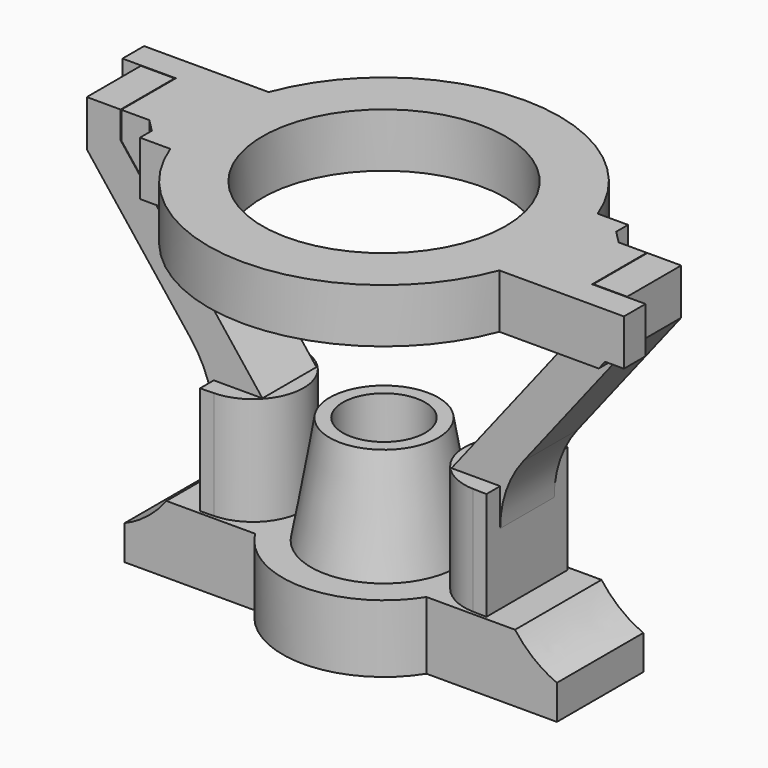
from build123d import *

# Parameters (mm, degrees)
SKETCH_R           = 5.4
SKETCH001_R        = 4.025
SKETCH003_R        = 7.5
PAD_DEPTH          = 5
SKETCH002_R        = 3.05
POCKET_DEPTH       = 200
SKETCH004_W        = 6.5
SKETCH004_H        = 8
PAD001_DEPTH       = 5
PAD002_DEPTH       = 8
SKETCH006_W        = 2.5
SKETCH006_H        = 5
PAD003_DEPTH       = 8
PAD004_DEPTH       = 5
PAD005_DEPTH       = 8
FILLET_R           = 8
FILLET001_R        = 8
SKETCH009_R        = 9
PAD006_DEPTH       = 4
POCKET001_DEPTH    = 5.05
POCKET002_DEPTH    = 5.05
POCKET003_DEPTH    = 5
POCKET004_DEPTH    = 5
POCKET005_DEPTH    = 5
POLARPATTERN_COUNT = 2


with BuildPart() as obj1:
    # Sketch → AdditiveLoft section 0
    with BuildSketch(Plane.XY):
        Circle(SKETCH_R)
    # Sketch001 (on DatumPlane) → AdditiveLoft section 1
    with BuildSketch(Plane.XY.offset(8)):
        Circle(SKETCH001_R)
    loft()

    # Sketch003 (on Face1 of AdditiveLoft) → Pad (new body)
    with BuildSketch(Plane(origin=(0, 0, 0), x_dir=(1, 0, 0), z_dir=(0, 0, -1))):
        Circle(SKETCH003_R)
    extrude(amount=PAD_DEPTH)

    # Sketch002 (on DatumPlane) → Pocket (cut)
    with BuildSketch(Plane.XY.offset(8)):
        Circle(SKETCH002_R)
    extrude(amount=-POCKET_DEPTH, mode=Mode.SUBTRACT)

    # Sketch004 (on Face2 of Pocket) → Pad001 (join)
    with BuildSketch(Plane.XY):
        with Locations((9.25, 0)):
            Rectangle(SKETCH004_W, SKETCH004_H)
    pad001 = extrude(amount=-PAD001_DEPTH)

    # Sketch005 (on Face3 of Pad001) → Pad002 (join)
    with BuildSketch(Plane.XZ.offset(4)):
        with BuildLine():
            Line((12.5, -5), (12.5, 0))
            Line((12.5, 0), (12.9, 0))
            add(Edge.make_bspline(
                [(12.9, 0), (14.151342, -1.664118), (16, -2.45)],
                knots=[0, 0, 0, 1, 1, 1], degree=2))
            Line((16, -2.45), (16, -5))
            Line((16, -5), (12.5, -5))
        make_face()
    pad002 = extrude(amount=-PAD002_DEPTH)

    # Sketch006 (on Face2 of Pad002) → Pad003 (join)
    with BuildSketch(Plane.XY):
        with Locations((9.25, 0)):
            Rectangle(SKETCH006_W, SKETCH006_H)
    pad003 = extrude(amount=PAD003_DEPTH)

    # Sketch007 (on Face9 of Pad003) → Pad004 (join)
    with BuildSketch(Plane.XZ.offset(2.5)):
        Polygon((7, 8), (10.6, 8), (20, 20), (20, 23.404255), (17.5, 23.404255), (17.5, 21.404255), align=None)
    pad004 = extrude(amount=-PAD004_DEPTH)

    # Sketch008 → Pad005 (join)
    with BuildSketch(Plane.XY):
        with BuildLine():
            ThreePointArc((9.6, 3.748666), (5.95, 0), (9.6, -3.748666))
            Line((9.6, -3.748666), (10.6, -3.775343))
            Line((10.6, -3.775343), (10.6, 3.748666))
            Line((10.6, 3.748666), (9.6, 3.748666))
        make_face()
    pad005 = extrude(amount=PAD005_DEPTH)

    # Fillet
    fillet_edges = [obj1.edges().sort_by_distance(p)[0] for p in [
        (10.6, 0, 8),
    ]]
    fillet(fillet_edges, radius=FILLET_R)

    # Mirrored: Pad001, Pad002, Pad003, Pad004, Pad005 across Sketch004 V_Axis
    add(pad001.mirror(Plane(origin=(0, 0, 0), x_dir=(0, 0, 1), z_dir=(1, 0, 0))))
    add(pad002.mirror(Plane(origin=(0, 0, 0), x_dir=(0, 0, 1), z_dir=(1, 0, 0))))
    add(pad003.mirror(Plane(origin=(0, 0, 0), x_dir=(0, 0, 1), z_dir=(1, 0, 0))))
    add(pad004.mirror(Plane(origin=(0, 0, 0), x_dir=(0, 0, 1), z_dir=(1, 0, 0))))
    add(pad005.mirror(Plane(origin=(0, 0, 0), x_dir=(0, 0, 1), z_dir=(1, 0, 0))))

    # Fillet001
    fillet001_edges = [obj1.edges().sort_by_distance(p)[0] for p in [
        (-10.6, 0, 8),
    ]]
    fillet(fillet001_edges, radius=FILLET001_R)


with BuildPart() as stability_ring:
    # Sketch009 (on DatumPlane) → Pad006 (new body)
    with BuildSketch(Plane.XY.offset(23.404255)):
        with BuildLine():
            ThreePointArc((12.177746, 4.55), (-1.065181, 12.956288), (-12.757351, 2.5))
            Line((-17.45, 2.5), (-12.757351, 2.5))
            Line((-17.45, 2.5), (-17.45, -2.55))
            Line((-17.45, -2.55), (-22, -2.55))
            Line((-22, -2.55), (-22, -4.55))
            Line((-22, -4.55), (-12.177746, -4.55))
            ThreePointArc((-12.177746, -4.55), (1.065181, -12.956288), (12.757351, -2.5))
            Line((17.45, -2.5), (12.757351, -2.5))
            Line((17.45, 2.55), (17.45, -2.5))
            Line((22, 2.55), (17.45, 2.55))
            Line((22, 2.55), (22, 4.55))
            Line((22, 4.55), (12.177746, 4.55))
        make_face()
        Circle(SKETCH009_R, mode=Mode.SUBTRACT)
    extrude(amount=-PAD006_DEPTH)

    # Sketch010 (on Face10 of Pad006) → Pocket001 (cut)
    with BuildSketch(Plane(origin=(0, -2.5, 23.404255), x_dir=(1, 0, 0), z_dir=(0, -1, 0))):
        Polygon((17.470894, -1.952582), (15.784162, -4.077046), (17.863272, -4.077046), align=None)
    extrude(amount=-POCKET001_DEPTH, mode=Mode.SUBTRACT)

    # Sketch011 (on Face7 of Pocket001) → Pocket002 (cut)
    with BuildSketch(Plane(origin=(0, 2.5, 23.404255), x_dir=(-1, 0, 0), z_dir=(0, 1, 0))):
        Polygon((15.814852, -4.068472), (17.467579, -1.977585), (17.988518, -4.068472), align=None)
    extrude(amount=-POCKET002_DEPTH, mode=Mode.SUBTRACT)

    # Sketch012 (on Face17 of Pocket002) → Pocket003 (cut)
    with BuildSketch(Plane(origin=(0, -2.55, 23.404255), x_dir=(-1, 0, 0), z_dir=(0, 1, 0))):
        Polygon((19.505526, -4.037285), (19.999149, -3.405484), (21.399149, -3.405484), (21.399149, 0), (22.759012, 0), (22.759012, -4.405802), align=None)
    extrude(amount=-POCKET003_DEPTH, mode=Mode.SUBTRACT)

    # Sketch013 (on Face2 of Pocket003) → Pocket004 (cut)
    with BuildSketch(Plane(origin=(0, 2.55, 23.404255), x_dir=(1, 0, 0), z_dir=(0, -1, 0))):
        Polygon((19.497252, -4.047795), (19.999849, -3.405754), (21.399849, -3.405754), (21.399849, 0), (22.496408, 0), (22.496408, -4.46575), align=None)
    extrude(amount=-POCKET004_DEPTH, mode=Mode.SUBTRACT)

    # Mirrored001: stability_ring across XZ


with BuildPart() as stability_ring_1:
    add(stability_ring.part)
    add(stability_ring.part.mirror(Plane.XZ))

    # Sketch014 (on Face27 of Mirrored001) → Pocket005 (cut)
    with BuildSketch(Plane.XY.offset(23.404255)):
        Polygon((-21.508259, -2.497821), (-21.508259, -4.812393), (-14.426693, -4.812393), (-14.426693, -3.448357), (-15.377228, -2.497821), align=None)
    pocket005 = extrude(amount=-POCKET005_DEPTH, mode=Mode.SUBTRACT)

    # PolarPattern: Pocket005 ×2 about axis
    polarpattern_axis = Axis((0, 0, 23.404255), (0, 0, 1))
    for i in range(1, POLARPATTERN_COUNT):
        add(pocket005.rotate(polarpattern_axis, i * 360 / POLARPATTERN_COUNT), mode=Mode.SUBTRACT)


solid = Compound([obj1.part, stability_ring_1.part])
